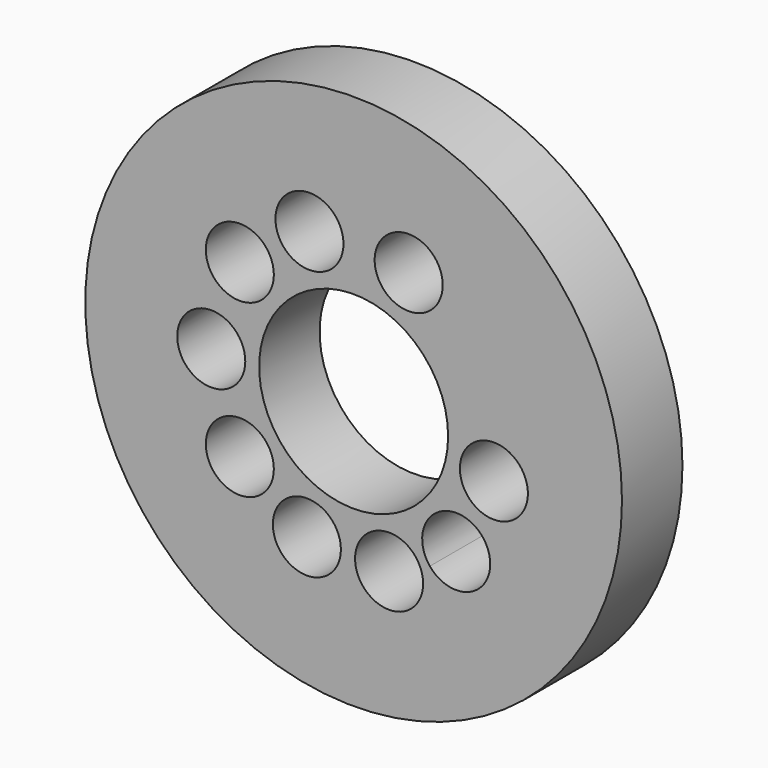
from build123d import *

# Parameters (mm, degrees)
F0_R     = 75
F0_R_2   = 13.5
F0_R_3   = 37.5
F0_R_4   = 106.5
F1_DEPTH = 30


with BuildPart() as f1:
    # F0 (on Front) → F1 (new body)
    with BuildSketch(Plane.XZ):
        Circle(F0_R)
        with Locations((-18.558072, -53.365232)):
            Circle(F0_R_2, mode=Mode.SUBTRACT)
        with Locations((-45.165828, -33.945515)):
            Circle(F0_R_2, mode=Mode.SUBTRACT)
        with BuildLine():
            ThreePointArc((26.649739, -49.82009), (27.338197, -52.227165), (27.570345, -54.719973))
            ThreePointArc((27.570345, -54.719973), (0.802492, -57.21278), (26.649739, -49.82009))
        make_face(mode=Mode.SUBTRACT)
        with BuildLine():
            ThreePointArc((54.206089, -39.182449), (45.238143, -51.898993), (30.24898, -47.720532))
            ThreePointArc((30.24898, -47.720532), (36.174035, -26.465905), (54.206089, -39.182449))
        make_face(mode=Mode.SUBTRACT)
        with Locations((55.660062, -9.706056)):
            Circle(F0_R_2, mode=Mode.SUBTRACT)
        with Locations((-56.5, 0)):
            Circle(F0_R_2, mode=Mode.SUBTRACT)
        with Locations((-45.165828, 33.945515)):
            Circle(F0_R_2, mode=Mode.SUBTRACT)
        with Locations((-17.533204, 53.710676)):
            Circle(F0_R_2, mode=Mode.SUBTRACT)
        Circle(F0_R_3, mode=Mode.SUBTRACT)
        with Locations((21.850665, 52.103728)):
            Circle(F0_R_2, mode=Mode.SUBTRACT)
        Circle(F0_R_4)
        Circle(F0_R, mode=Mode.SUBTRACT)
        Circle(F0_R)
        with Locations((-18.558072, -53.365232)):
            Circle(F0_R_2, mode=Mode.SUBTRACT)
        with Locations((-45.165828, -33.945515)):
            Circle(F0_R_2, mode=Mode.SUBTRACT)
        with BuildLine():
            ThreePointArc((26.649739, -49.82009), (27.338197, -52.227165), (27.570345, -54.719973))
            ThreePointArc((27.570345, -54.719973), (0.802492, -57.21278), (26.649739, -49.82009))
        make_face(mode=Mode.SUBTRACT)
        with BuildLine():
            ThreePointArc((54.206089, -39.182449), (45.238143, -51.898993), (30.24898, -47.720532))
            ThreePointArc((30.24898, -47.720532), (36.174035, -26.465905), (54.206089, -39.182449))
        make_face(mode=Mode.SUBTRACT)
        with Locations((55.660062, -9.706056)):
            Circle(F0_R_2, mode=Mode.SUBTRACT)
        with Locations((-56.5, 0)):
            Circle(F0_R_2, mode=Mode.SUBTRACT)
        with Locations((-45.165828, 33.945515)):
            Circle(F0_R_2, mode=Mode.SUBTRACT)
        with Locations((-17.533204, 53.710676)):
            Circle(F0_R_2, mode=Mode.SUBTRACT)
        Circle(F0_R_3, mode=Mode.SUBTRACT)
        with Locations((21.850665, 52.103728)):
            Circle(F0_R_2, mode=Mode.SUBTRACT)
    extrude(amount=F1_DEPTH)


solid = f1.part
